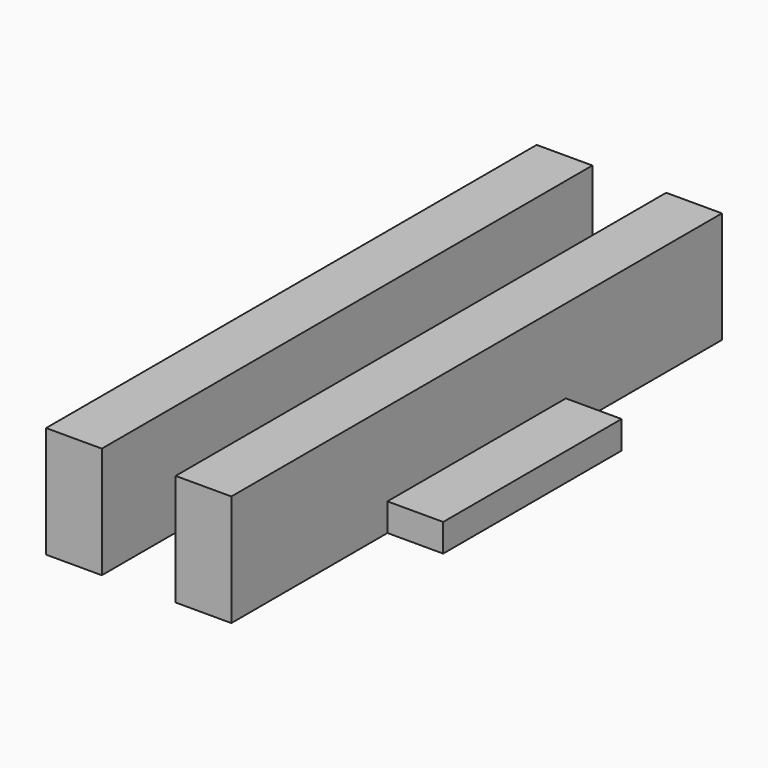
from build123d import *

# Parameters (mm, degrees)
F0_W     = 12.7
F0_H     = 139.7
F1_DEPTH = 25.4
F2_W     = 50.8
F2_H     = 6.35
F4_DEPTH = 12.7
F3_W     = 50.8
F3_H     = 6.35
F5_DEPTH = 12.7


with BuildPart() as f1:
    # F0 (on Top) → F1 (new body)
    with BuildSketch(Plane.XY):
        with Locations((-14.755463, 0)):
            Rectangle(F0_W, F0_H)
        with Locations((14.755463, 0)):
            Rectangle(F0_W, F0_H)
    extrude(amount=F1_DEPTH)

    # F2 (on face) → F4 (join)
    with BuildSketch(Plane.YZ.offset(21.105463)):
        with Locations((0, 3.175)):
            Rectangle(F2_W, F2_H)
    extrude(amount=F4_DEPTH)

    # F3 (on face) → F5 (join)
    with BuildSketch(Plane(origin=(-21.105463, 0, 0), x_dir=(0, -1, 0), z_dir=(-1, 0, 0))):
        with Locations((0, 3.175)):
            Rectangle(F3_W, F3_H)
    extrude(amount=F5_DEPTH)


solid = f1.part
